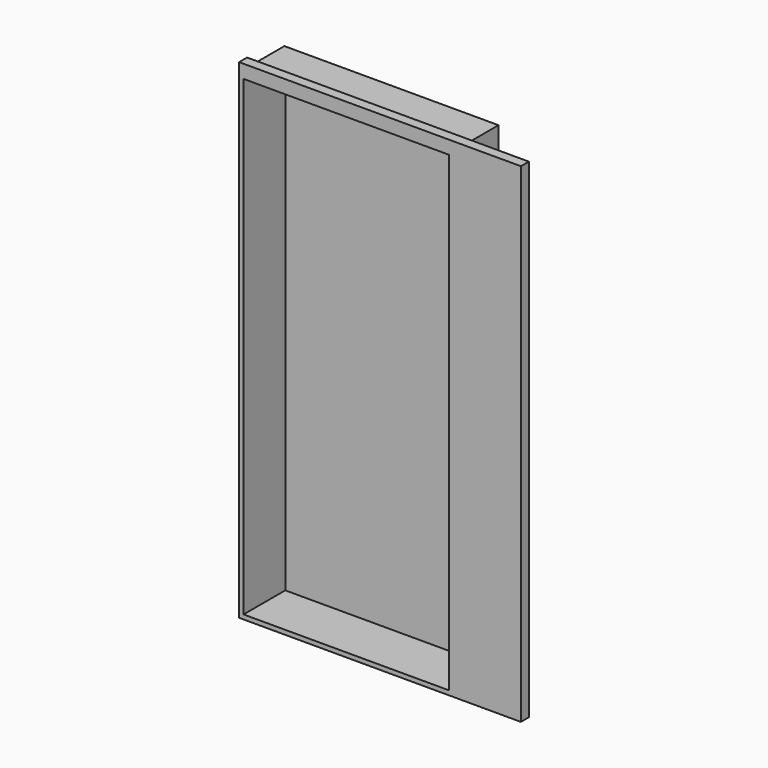
from build123d import *

# Parameters (mm, degrees)
F1_DEPTH = 2165
F2_W     = 1270
F2_H     = 45
F3_DEPTH = 40
F4_W     = 925
F4_H     = 2125
F5_DEPTH = 235


with BuildPart() as f1:
    # F0 (on Top) → F1 (new body)
    with BuildSketch(Plane.XY):
        Polygon((0, 255), (0, 0), (1270, 0), (1270, 45), (965, 45), (965, 255), align=None)
    extrude(amount=F1_DEPTH)

    # F2 (on face) → F3 (join)
    with BuildSketch(Plane.XY.offset(2165)):
        with Locations((635, 22.5)):
            Rectangle(F2_W, F2_H)
    extrude(amount=F3_DEPTH)

    # F4 (on face) → F5 (cut)
    with BuildSketch(Plane.XZ):
        with Locations((482.5, 1082.5)):
            Rectangle(F4_W, F4_H)
    extrude(amount=-F5_DEPTH, mode=Mode.SUBTRACT)


solid = f1.part
